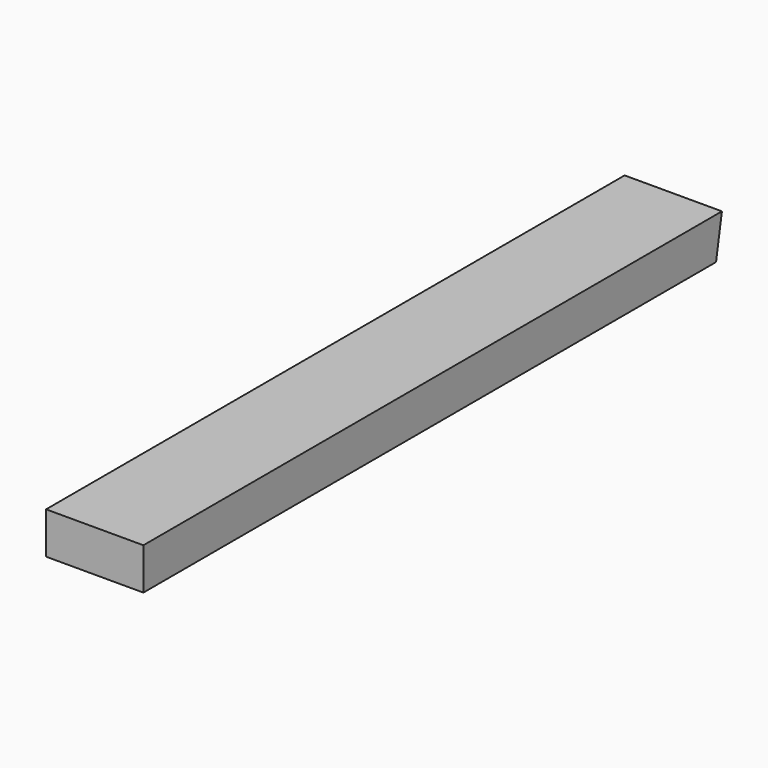
from build123d import *

# Parameters (mm, degrees)
F0_W     = 88.9
F0_H     = 38.1
F1_DEPTH = 654.05
F3_DEPTH = 88.9


with BuildPart() as f1:
    # F0 (on Front) → F1 (new body)
    with BuildSketch(Plane.XZ):
        Rectangle(F0_W, F0_H)
    extrude(amount=-F1_DEPTH)

    # F2 (on face) → F3 (join)
    with BuildSketch(Plane.YZ.offset(44.45)):
        Polygon((654.05, 19.05), (654.05, -19.05), (660.768058, 19.05), align=None)
    extrude(amount=-F3_DEPTH)


solid = f1.part
